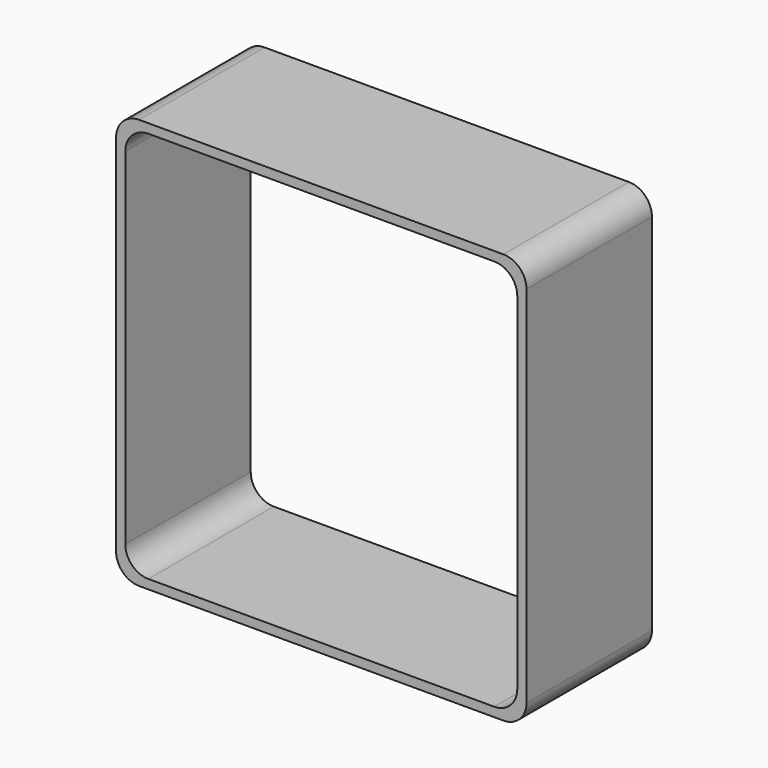
from build123d import *

# Parameters (mm, degrees)
F1_DEPTH = 34


with BuildPart() as f1:
    # F0 (on Front) → F1 (new body)
    with BuildSketch(Plane.XZ):
        with BuildLine():
            ThreePointArc((44.5, 39.5), (43.035534, 43.035534), (39.5, 44.5))
            Line((39.5, 44.5), (-39.5, 44.5))
            ThreePointArc((-39.5, 44.5), (-43.035534, 43.035534), (-44.5, 39.5))
            Line((-44.5, 39.5), (-44.5, -39.5))
            ThreePointArc((-44.5, -39.5), (-43.035534, -43.035534), (-39.5, -44.5))
            Line((-39.5, -44.5), (39.5, -44.5))
            ThreePointArc((39.5, -44.5), (43.035534, -43.035534), (44.5, -39.5))
            Line((44.5, -39.5), (44.5, 39.5))
        make_face()
        with BuildLine():
            Line((-37.5, 42.5), (37.5, 42.5))
            ThreePointArc((37.5, 42.5), (41.035534, 41.035534), (42.5, 37.5))
            Line((42.5, 37.5), (42.5, -37.5))
            ThreePointArc((42.5, -37.5), (41.035534, -41.035534), (37.5, -42.5))
            Line((37.5, -42.5), (-37.5, -42.5))
            ThreePointArc((-37.5, -42.5), (-41.035534, -41.035534), (-42.5, -37.5))
            Line((-42.5, -37.5), (-42.5, 37.5))
            ThreePointArc((-42.5, 37.5), (-41.035534, 41.035534), (-37.5, 42.5))
        make_face(mode=Mode.SUBTRACT)
    extrude(amount=F1_DEPTH)


solid = f1.part
